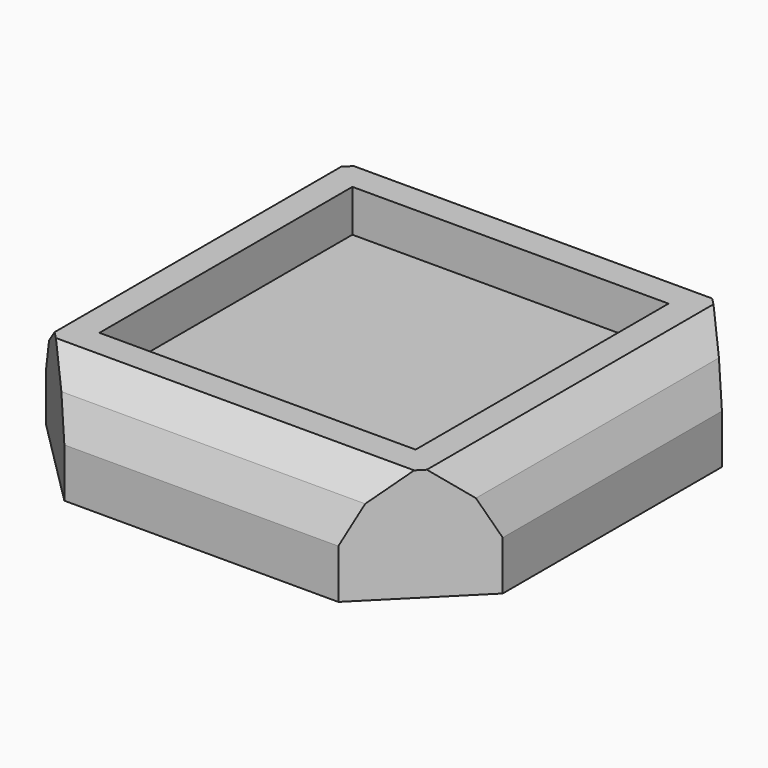
from build123d import *

# Parameters (mm, degrees)
SKETCH_W        = 65
SKETCH_H        = 65
PAD_DEPTH       = 16
SKETCH001_W     = 45
SKETCH001_H     = 45
POCKET_DEPTH    = 6
CHAMFER_SIZE    = 13
CHAMFER001_SIZE = 6
CHAMFER002_SIZE = 3


with BuildPart() as part:
    # Sketch → Pad (new body)
    with BuildSketch(Plane.XY):
        with Locations((32.5, 32.5)):
            Rectangle(SKETCH_W, SKETCH_H)
    extrude(amount=PAD_DEPTH)

    # Sketch001 (on Face6 of Pad) → Pocket (cut)
    with BuildSketch(Plane.XY.offset(16)):
        with Locations((32.5, 32.5)):
            Rectangle(SKETCH001_W, SKETCH001_H)
    extrude(amount=-POCKET_DEPTH, mode=Mode.SUBTRACT)

    # Chamfer
    chamfer_edges = [part.edges().sort_by_distance(p)[0] for p in [
        (0, 0, 8),
        (65, 0, 8),
        (65, 65, 8),
        (0, 65, 8),
    ]]
    chamfer(chamfer_edges, length=CHAMFER_SIZE)

    # Chamfer001
    chamfer001_edges = [part.edges().sort_by_distance(p)[0] for p in [
        (32.5, 0, 16),
        (65, 32.5, 16),
        (32.5, 65, 16),
        (0, 32.5, 16),
    ]]
    chamfer(chamfer001_edges, length=CHAMFER001_SIZE)

    # Chamfer002
    chamfer002_edges = [part.edges().sort_by_distance(p)[0] for p in [
        (32.5, 0, 10),
        (65, 32.5, 10),
        (32.5, 65, 10),
        (0, 32.5, 10),
    ]]
    chamfer(chamfer002_edges, length=CHAMFER002_SIZE)


solid = part.part
